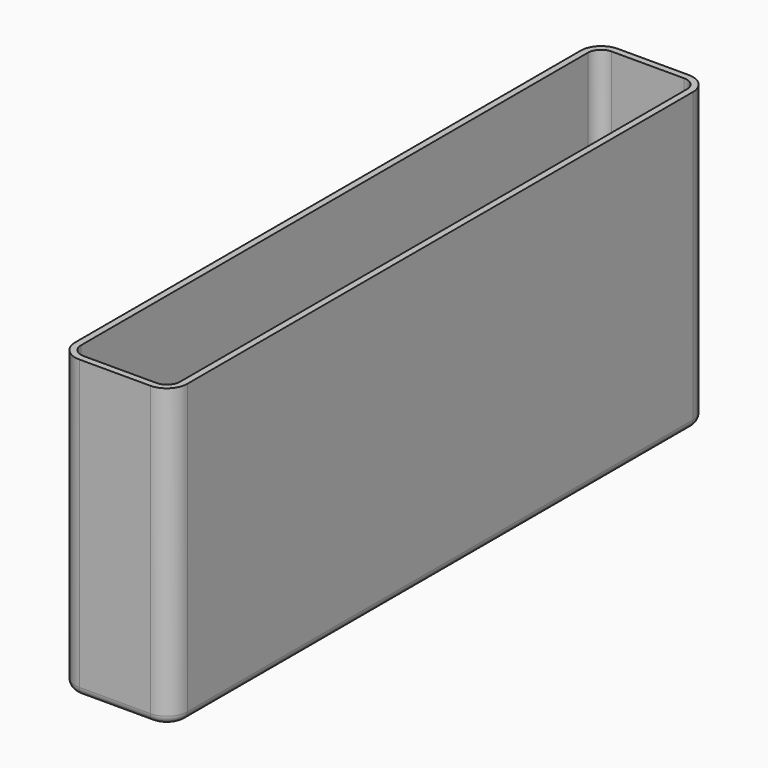
from build123d import *

# Parameters (mm, degrees)
F1_DEPTH = 1.524
F3_DEPTH = 44.196
F4_R     = 1.27


with BuildPart() as f1:
    # F0 (on Top) → F1 (new body)
    with BuildSketch(Plane.XY):
        with BuildLine():
            Line((5.461, 51.816), (-5.461, 51.816))
            ThreePointArc((-5.461, 51.816), (-7.706064, 50.886064), (-8.636, 48.641))
            Line((-8.636, 48.641), (-8.636, -48.641))
            ThreePointArc((-8.636, -48.641), (-7.706064, -50.886064), (-5.461, -51.816))
            Line((-5.461, -51.816), (5.461, -51.816))
            ThreePointArc((5.461, -51.816), (7.706064, -50.886064), (8.636, -48.641))
            Line((8.636, -48.641), (8.636, 48.641))
            ThreePointArc((8.636, 48.641), (7.706064, 50.886064), (5.461, 51.816))
        make_face()
    extrude(amount=F1_DEPTH)

    # F2 (on face) → F3 (join)
    with BuildSketch(Plane.XY.offset(1.524)):
        with BuildLine():
            ThreePointArc((5.461, -51.816), (7.706064, -50.886064), (8.636, -48.641))
            Line((8.636, -48.641), (8.636, 48.641))
            ThreePointArc((8.636, 48.641), (7.706064, 50.886064), (5.461, 51.816))
            Line((5.461, 51.816), (-5.461, 51.816))
            ThreePointArc((-5.461, 51.816), (-7.706064, 50.886064), (-8.636, 48.641))
            Line((-8.636, 48.641), (-8.636, -48.641))
            ThreePointArc((-8.636, -48.641), (-7.706064, -50.886064), (-5.461, -51.816))
            Line((-5.461, -51.816), (5.461, -51.816))
        make_face()
        with BuildLine():
            ThreePointArc((-7.62, 48.768), (-7.024841, 50.204841), (-5.588, 50.8))
            Line((-5.588, 50.8), (5.588, 50.8))
            ThreePointArc((5.588, 50.8), (7.024841, 50.204841), (7.62, 48.768))
            Line((7.62, 48.768), (7.62, -48.768))
            ThreePointArc((7.62, -48.768), (7.024841, -50.204841), (5.588, -50.8))
            Line((5.588, -50.8), (-5.588, -50.8))
            ThreePointArc((-5.588, -50.8), (-7.024841, -50.204841), (-7.62, -48.768))
            Line((-7.62, -48.768), (-7.62, 48.768))
        make_face(mode=Mode.SUBTRACT)
    extrude(amount=F3_DEPTH)

    # F4
    f4_edges = [f1.edges().sort_by_distance(p)[0] for p in [
        (8.636, 0, 0),
        (7.706064, 50.886064, 0),
        (0, 51.816, 0),
        (-7.706064, 50.886064, 0),
        (-8.636, 0, 0),
        (-7.706064, -50.886064, 0),
        (0, -51.816, 0),
        (7.706064, -50.886064, 0),
    ]]
    fillet(f4_edges, radius=F4_R)


solid = f1.part
